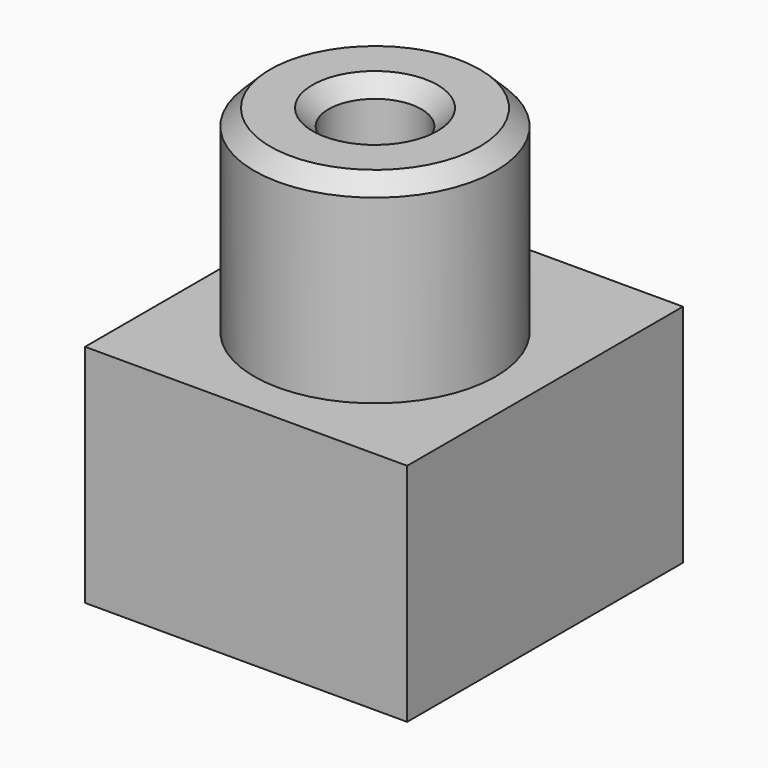
from build123d import *

# Parameters (mm, degrees)
F0_W     = 100
F0_H     = 70
F1_DEPTH = 107
F2_R     = 37.5
F3_DEPTH = 61.2
F4_R     = 14.4000008702
F5_DEPTH = 131.201
F6_SIZE  = 5


with BuildPart() as f1:
    # F0 (on Front) → F1 (new body)
    with BuildSketch(Plane.XZ):
        with Locations((50, 35)):
            Rectangle(F0_W, F0_H)
    extrude(amount=F1_DEPTH)

    # F2 (on face) → F3 (join)
    with BuildSketch(Plane.XY.offset(70)):
        with Locations((50, -57)):
            Circle(F2_R)
    extrude(amount=F3_DEPTH)

    # F4 (on face) → F5 (cut, through all)
    with BuildSketch(Plane.XY.offset(131.2)):
        with Locations((50, -57)):
            Circle(F4_R)
    extrude(amount=-F5_DEPTH, mode=Mode.SUBTRACT)

    # F6
    f6_edges = [f1.edges().sort_by_distance(p)[0] for p in [
        (12.5, -57, 131.2),
        (35.599999, -57, 131.2),
    ]]
    chamfer(f6_edges, length=F6_SIZE)


solid = f1.part
